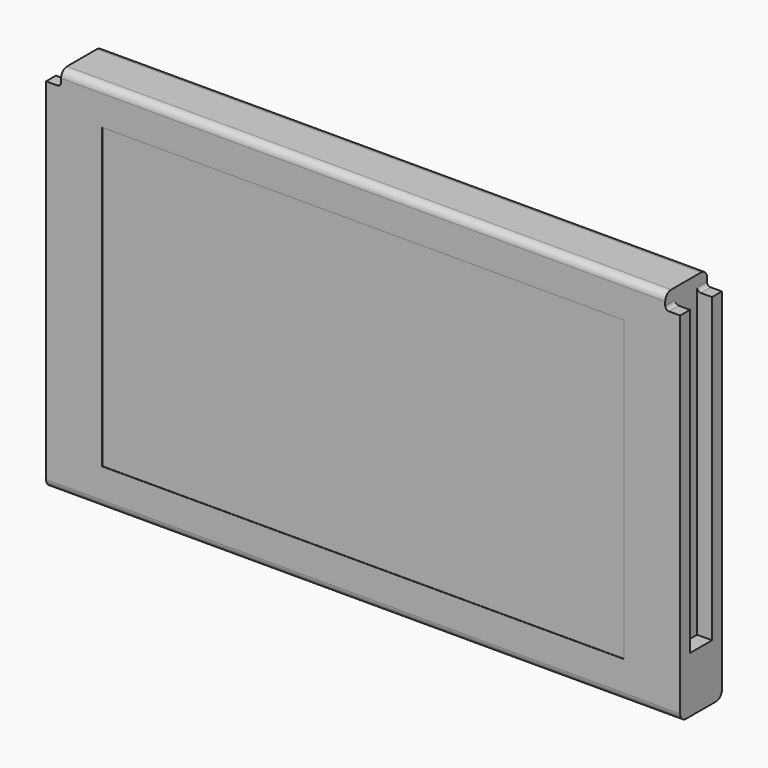
from build123d import *

# Parameters (mm, degrees)
F1_DEPTH  = 14
F2_R      = 2
F0_W      = 70
F0_H      = 80
F3_DEPTH  = 13.9
F4_W      = 7.4
F4_H      = 4
F4_H_2    = 81
F5_DEPTH  = 4
F6_R      = 1
F7_W      = 3
F7_H      = 10
F8_DEPTH  = 3
F9_DEPTH  = 2.25
F11_DEPTH = 3
F10_R     = 1.75
F12_DEPTH = 2.5


with BuildPart() as f1:
    # F0 (on Front) → F1 (new body)
    with BuildSketch(Plane.XZ):
        Polygon((0, 100), (0, 0), (85, 0), (85, 10), (15, 10), (15, 90), (85, 90), (85, 100), align=None)
    extrude(amount=F1_DEPTH)

    # F2
    f2_edges = [f1.edges().sort_by_distance(p)[0] for p in [
        (42.5, -14, 100),
        (42.5, 0, 100),
        (42.5, -14, 0),
        (42.5, 0, 0),
    ]]
    fillet(f2_edges, radius=F2_R)

    # F0 (on Front) → F3 (join)
    with BuildSketch(Plane.XZ):
        with Locations((50, 50)):
            Rectangle(F0_W, F0_H)
    extrude(amount=F3_DEPTH)

    # F4 (on face) → F5 (cut)
    with BuildSketch(Plane(origin=(0, 0, 0), x_dir=(0, -1, 0), z_dir=(-1, 0, 0))):
        with BuildLine():
            Line((12, 100), (10.7, 100))
            Line((10.7, 100), (10.7, 96))
            Line((10.7, 96), (14, 96))
            Line((14, 96), (14, 98))
            ThreePointArc((14, 98), (13.4142135624, 99.4142135624), (12, 100))
        make_face()
        with Locations((7, 98)):
            Rectangle(F4_W, F4_H)
        with BuildLine():
            Line((3.3, 96), (3.3, 100))
            Line((3.3, 100), (2, 100))
            ThreePointArc((2, 100), (0.5857864376, 99.4142135624), (0, 98))
            Line((0, 98), (0, 96))
            Line((0, 96), (3.3, 96))
        make_face()
        with Locations((7, 55.5)):
            Rectangle(F4_W, F4_H_2)
    extrude(amount=-F5_DEPTH, mode=Mode.SUBTRACT)

    # F6
    f6_edges = [f1.edges().sort_by_distance(p)[0] for p in [
        (4, -1.65, 96),
        (4, -12.35, 96),
    ]]
    fillet(f6_edges, radius=F6_R)

    # F7 (on face) → F8 (cut)
    with BuildSketch(Plane.XZ):
        with BuildLine():
            Line((82, 10.8), (82, 10))
            Line((82, 10), (85, 10))
            Line((85, 10), (85, 12))
            Line((85, 12), (83.2, 12))
            ThreePointArc((83.2, 12), (82.3514718626, 11.6485281374), (82, 10.8))
        make_face()
        with Locations((83.5, 5)):
            Rectangle(F7_W, F7_H)
    extrude(amount=F8_DEPTH, mode=Mode.SUBTRACT)

    # F7 (on face) → F9 (cut)
    with BuildSketch(Plane.XZ):
        with BuildLine():
            Line((35.7679491924, 10), (78.2320508076, 10))
            ThreePointArc((78.2320508076, 10), (78.245506934, 10.1246782406), (78.25, 10.25))
            ThreePointArc((78.25, 10.25), (77.7374368671, 11.4874368671), (76.5, 12))
            Line((76.5, 12), (37.5, 12))
            ThreePointArc((37.5, 12), (36.2625631329, 11.4874368671), (35.75, 10.25))
            ThreePointArc((35.75, 10.25), (35.754493066, 10.1246782406), (35.7679491924, 10))
        make_face()
        with BuildLine():
            ThreePointArc((76.5, 8.5), (77.6456439237, 8.9271243445), (78.2320508076, 10))
            Line((78.2320508076, 10), (35.7679491924, 10))
            ThreePointArc((35.7679491924, 10), (36.3543560763, 8.9271243445), (37.5, 8.5))
            Line((37.5, 8.5), (76.5, 8.5))
        make_face()
    extrude(amount=F9_DEPTH, mode=Mode.SUBTRACT)

    # F10 (on face) → F11 (cut)
    with BuildSketch(Plane(origin=(0, 0, 0), x_dir=(1, 0, 0), z_dir=(0, 0, -1))):
        with BuildLine():
            Line((83.25, 6), (85, 6))
            Line((85, 6), (85, 8.5))
            Line((85, 8.5), (83.25, 8.5))
            ThreePointArc((83.25, 8.5), (82.3661165235, 8.1338834765), (82, 7.25))
            ThreePointArc((82, 7.25), (82.3661165235, 6.3661165235), (83.25, 6))
        make_face()
    extrude(amount=-F11_DEPTH, mode=Mode.SUBTRACT)

    # F10 (on face) → F12 (cut)
    with BuildSketch(Plane(origin=(0, 0, 0), x_dir=(1, 0, 0), z_dir=(0, 0, -1))):
        with Locations((66.9, 7.25)):
            Circle(F10_R)
    extrude(amount=-F12_DEPTH, mode=Mode.SUBTRACT)

    # F13: F1 across face


with BuildPart() as f1_1:
    add(f1.part)
    add(f1.part.mirror(Plane(origin=(85, -7.100228209, 51.4155420461), x_dir=(0, 1, 0), z_dir=(1, 0, 0))))


solid = f1_1.part
